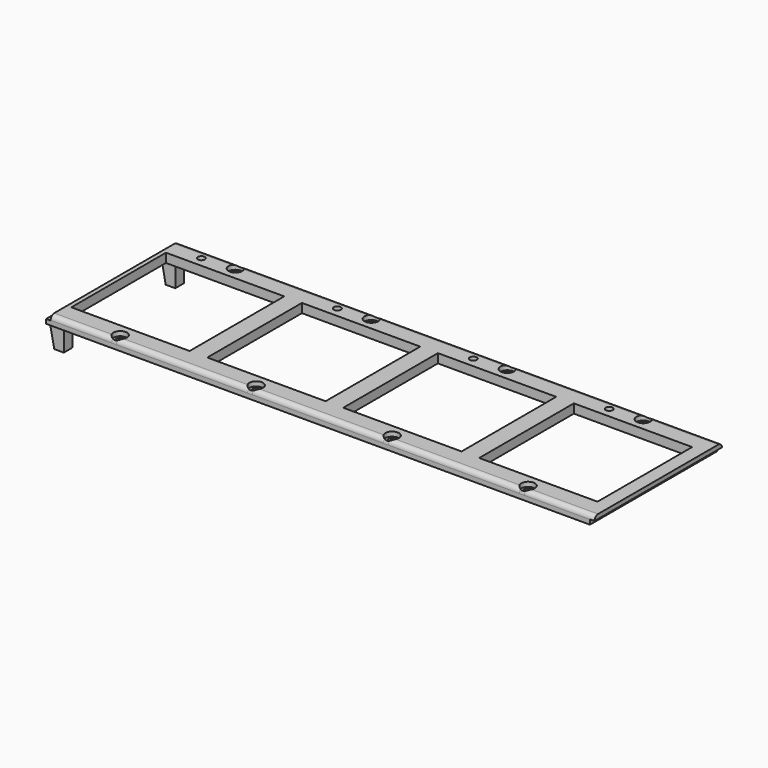
from build123d import *

# Parameters (mm, degrees)
SKETCH106_W          = 242
SKETCH106_H          = 70.3
SKETCH106_R          = 1.75
SKETCH106_R_2        = 1.55
SKETCH106_W_2        = 52.2
SKETCH106_H_2        = 52.2
PAD036_DEPTH         = 4
FILLET007_R          = 2
SKETCH107_W          = 2
SKETCH107_H          = 2.1
POCKET052_DEPTH      = 35.151
POCKET052_DEPTH_BACK = 35.151
SKETCH108_R          = 3
POCKET040_DEPTH      = 2.001
SKETCH105_W          = 4.202
SKETCH105_H          = 4.8
PAD038_DEPTH         = 10
CHAMFER005_SIZE2     = 9.99
CHAMFER005_SIZE      = 1.99


with BuildPart() as part:
    # Sketch106 → Pad036 (new body)
    with BuildSketch(Plane.XY):
        with Locations((91, 0)):
            Rectangle(SKETCH106_W, SKETCH106_H)
        with Locations((0, 31.75)):
            Circle(SKETCH106_R, mode=Mode.SUBTRACT)
        with Locations((-14, 30.5)):
            Circle(SKETCH106_R_2, mode=Mode.SUBTRACT)
        with Locations((60, 31.75)):
            Circle(SKETCH106_R, mode=Mode.SUBTRACT)
        with Locations((46, 30.5)):
            Circle(SKETCH106_R_2, mode=Mode.SUBTRACT)
        with Locations((60, -31.75)):
            Circle(SKETCH106_R, mode=Mode.SUBTRACT)
        with Locations((0, -31.75)):
            Circle(SKETCH106_R, mode=Mode.SUBTRACT)
        with Locations((120, 31.75)):
            Circle(SKETCH106_R, mode=Mode.SUBTRACT)
        with Locations((106, 30.5)):
            Circle(SKETCH106_R_2, mode=Mode.SUBTRACT)
        with Locations((180, 31.75)):
            Circle(SKETCH106_R, mode=Mode.SUBTRACT)
        with Locations((166, 30.5)):
            Circle(SKETCH106_R_2, mode=Mode.SUBTRACT)
        with Locations((180, -31.75)):
            Circle(SKETCH106_R, mode=Mode.SUBTRACT)
        with Locations((120, -31.75)):
            Circle(SKETCH106_R, mode=Mode.SUBTRACT)
        Rectangle(SKETCH106_W_2, SKETCH106_H_2, mode=Mode.SUBTRACT)
        with Locations((60, 0)):
            Rectangle(SKETCH106_W_2, SKETCH106_H_2, mode=Mode.SUBTRACT)
        with Locations((120, 0)):
            Rectangle(SKETCH106_W_2, SKETCH106_H_2, mode=Mode.SUBTRACT)
        with Locations((180, 0)):
            Rectangle(SKETCH106_W_2, SKETCH106_H_2, mode=Mode.SUBTRACT)
    extrude(amount=PAD036_DEPTH)

    # Fillet007
    fillet007_edges = [part.edges().sort_by_distance(p)[0] for p in [
        (91, -35.15, 4),
        (91, 35.15, 4),
    ]]
    fillet(fillet007_edges, radius=FILLET007_R)

    # Sketch107 → Pocket052 (cut, two sides)
    with BuildSketch(Plane.XZ) as pocket052_sk:
        with Locations((-29, 2.95)):
            Rectangle(SKETCH107_W, SKETCH107_H)
        with Locations((211, 1.05)):
            Rectangle(SKETCH107_W, SKETCH107_H)
    extrude(amount=-POCKET052_DEPTH, mode=Mode.SUBTRACT)
    extrude(pocket052_sk.sketch, amount=POCKET052_DEPTH_BACK, mode=Mode.SUBTRACT)

    # Sketch108 → Pocket040 (cut, through all)
    with BuildSketch(Plane.XY.offset(2)):
        with Locations((0, 31.75)):
            Circle(SKETCH108_R)
        with Locations((60, 31.75)):
            Circle(SKETCH108_R)
        with Locations((60, -31.75)):
            Circle(SKETCH108_R)
        with Locations((0, -31.75)):
            Circle(SKETCH108_R)
        with Locations((120, 31.75)):
            Circle(SKETCH108_R)
        with Locations((180, 31.75)):
            Circle(SKETCH108_R)
        with Locations((180, -31.75)):
            Circle(SKETCH108_R)
        with Locations((120, -31.75)):
            Circle(SKETCH108_R)
    extrude(amount=POCKET040_DEPTH, mode=Mode.SUBTRACT)

    # Sketch105 → Pad038 (join)
    with BuildSketch(Plane.XY):
        with Locations((-25.899, 30.75)):
            Rectangle(SKETCH105_W, SKETCH105_H)
        with Locations((-25.899, -30.75)):
            Rectangle(SKETCH105_W, SKETCH105_H)
    extrude(amount=-PAD038_DEPTH)

    # Chamfer005
    chamfer005_edges = [part.edges().sort_by_distance(p)[0] for p in [
        (-28, 30.75, 0),
        (-28, -30.75, 0),
    ]]
    chamfer005_side = part.faces().sort_by_distance((90.875162, -0.158076, 0))[0]
    chamfer(chamfer005_edges, length=CHAMFER005_SIZE, length2=CHAMFER005_SIZE2, reference=chamfer005_side)


solid = part.part
